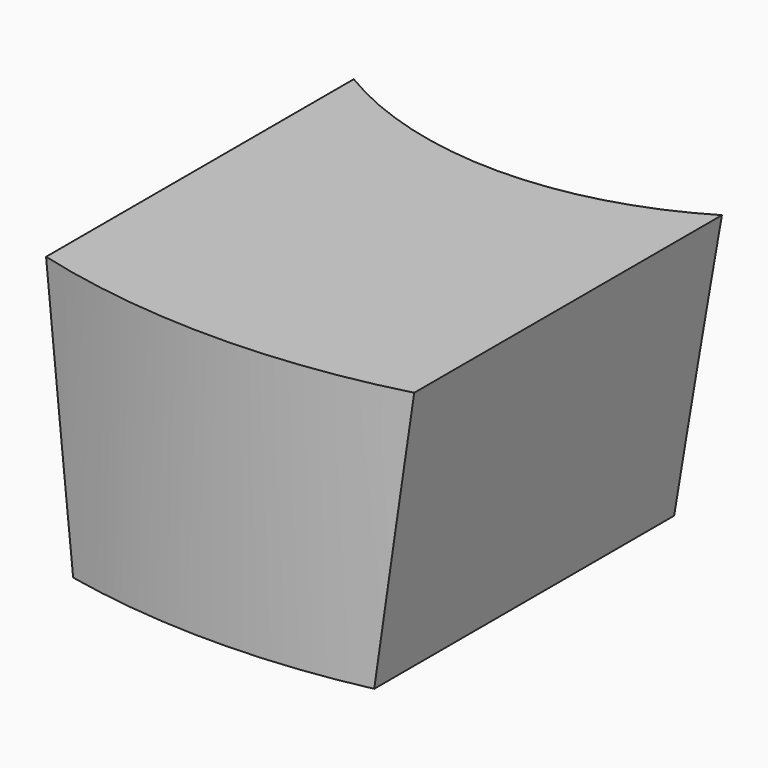
from build123d import *

# Parameters (mm, degrees)
PAD006_DEPTH  = 40
TUBE001_R     = 12
TUBE001_R_2   = 6
TUBE001_DEPTH = 10


with BuildPart() as teeth_female:
    # Sketch009 → Pad006 (new body)
    with BuildSketch(Plane.XZ):
        Polygon((-2.525, 0), (2.525, 0), (3.0875, 4.5), (-3.0875, 4.5), align=None)
    extrude(amount=PAD006_DEPTH)


with BuildPart() as teeth_female_base:
    # Tube001 → Tube001 (new body)
    with BuildSketch(Plane.XY):
        Circle(TUBE001_R)
        Circle(TUBE001_R_2, mode=Mode.SUBTRACT)
    extrude(amount=TUBE001_DEPTH)

    # Common001: intersect teeth-female
    add(teeth_female.part, mode=Mode.INTERSECT)


solid = teeth_female_base.part
